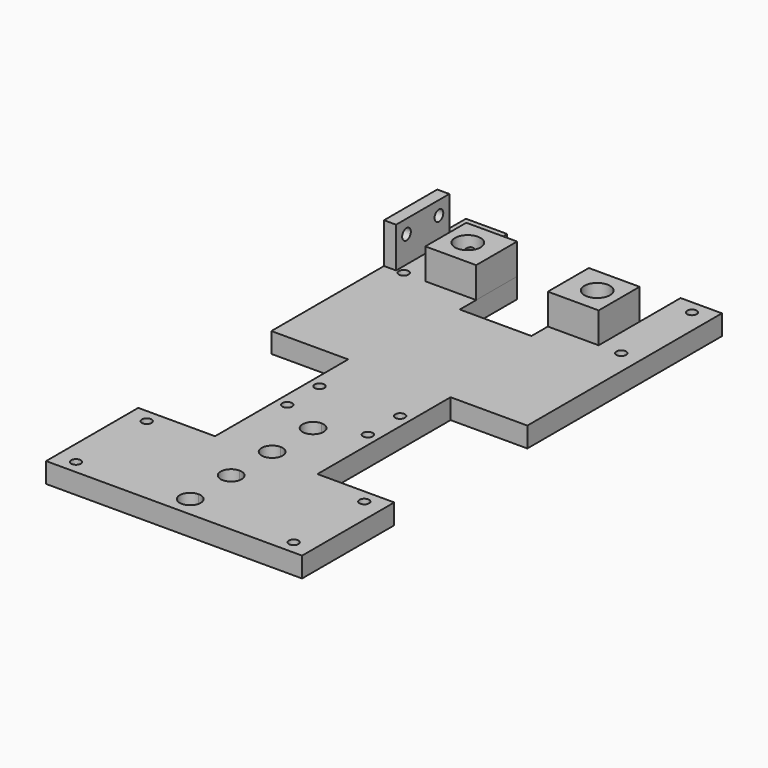
from build123d import *

# Parameters (mm, degrees)
F0_R      = 1.2
F0_W      = 31.75
F0_H      = 14.2875
F1_DEPTH  = 5
F2_W      = 19.05
F2_H      = 31.75
F3_DEPTH  = 5
F4_W      = 43.000006
F4_H      = 12.7
F5_DEPTH  = 5
F6_W      = 17.78
F6_H      = 17.78
F7_DEPTH  = 5
F8_W      = 12.610003
F8_H      = 12.7
F9_DEPTH  = 7.62
F10_R     = 3.175
F11_DEPTH = 7.62
F12_R     = 1.2
F13_DEPTH = 6
F14_W     = 3
F14_H     = 16.51
F15_DEPTH = 10
F16_R     = 1.349997
F17_DEPTH = 3


with BuildPart() as f1:
    # F0 (on Top) → F1 (new body)
    with BuildSketch(Plane.XY):
        Polygon((-31.75, 36.5125), (-12.7, 36.5125), (-12.7, 0), (0, 0), (0, 50.8), (-31.75, 50.8), align=None)
        with Locations((-26.9875, 39.84625)):
            Circle(F0_R, mode=Mode.SUBTRACT)
        with BuildLine():
            Line((0, 0), (-12.7, 0))
            Line((-12.7, 0), (-12.7, -36.5125))
            Line((-12.7, -36.5125), (-31.75, -36.5125))
            Line((-31.75, -36.5125), (-31.75, -50.8))
            Line((-31.75, -50.8), (0, -50.8))
            Line((0, -50.8), (0, -49.9875))
            ThreePointArc((0, -49.9875), (-2.6, -47.3875), (0, -44.7875))
            Line((0, -44.7875), (0, -37.2875))
            ThreePointArc((0, -37.2875), (-2.6, -34.6875), (0, -32.0875))
            Line((0, -32.0875), (0, -24.5875))
            ThreePointArc((0, -24.5875), (-2.6, -21.9875), (0, -19.3875))
            Line((0, -19.3875), (0, 0))
        make_face()
        with Locations((-26.9875, -39.84625)):
            Circle(F0_R, mode=Mode.SUBTRACT)
        with Locations((-10, -17.500003)):
            Circle(F0_R, mode=Mode.SUBTRACT)
        with Locations((-10, -7.499998)):
            Circle(F0_R, mode=Mode.SUBTRACT)
        Polygon((0, 50.8), (0, 0), (12.7, 0), (12.7, 36.5125), (31.75, 36.5125), (31.75, 50.8), align=None)
        with Locations((26.9875, 39.84625)):
            Circle(F0_R, mode=Mode.SUBTRACT)
        with BuildLine():
            Line((12.7, 0), (0, 0))
            Line((0, 0), (0, -19.3875))
            ThreePointArc((0, -19.3875), (1.838478, -20.149022), (2.6, -21.9875))
            ThreePointArc((2.6, -21.9875), (1.838478, -23.825978), (0, -24.5875))
            Line((0, -24.5875), (0, -32.0875))
            ThreePointArc((0, -32.0875), (1.838478, -32.849022), (2.6, -34.6875))
            ThreePointArc((2.6, -34.6875), (1.838478, -36.525978), (0, -37.2875))
            Line((0, -37.2875), (0, -44.7875))
            ThreePointArc((0, -44.7875), (1.838478, -45.549022), (2.6, -47.3875))
            ThreePointArc((2.6, -47.3875), (1.838478, -49.225978), (0, -49.9875))
            Line((0, -49.9875), (0, -50.8))
            Line((0, -50.8), (31.75, -50.8))
            Line((31.75, -50.8), (31.75, -36.5125))
            Line((31.75, -36.5125), (12.7, -36.5125))
            Line((12.7, -36.5125), (12.7, 0))
        make_face()
        with Locations((26.9875, -39.84625)):
            Circle(F0_R, mode=Mode.SUBTRACT)
        with Locations((10, -17.500003)):
            Circle(F0_R, mode=Mode.SUBTRACT)
        with Locations((10, -7.499998)):
            Circle(F0_R, mode=Mode.SUBTRACT)
        with Locations((-15.875, 57.94375)):
            Rectangle(F0_W, F0_H)
        with Locations((-26.9875, 61.75375)):
            Circle(F0_R, mode=Mode.SUBTRACT)
        with Locations((15.875, 57.94375)):
            Rectangle(F0_W, F0_H)
        with Locations((26.9875, 61.75375)):
            Circle(F0_R, mode=Mode.SUBTRACT)
        with BuildLine():
            Line((0, -50.8), (-31.75, -50.8))
            Line((-31.75, -50.8), (-31.75, -65.0875))
            Line((-31.75, -65.0875), (0, -65.0875))
            Line((0, -65.0875), (0, -62.6875))
            ThreePointArc((0, -62.6875), (-2.6, -60.0875), (0, -57.4875))
            Line((0, -57.4875), (0, -50.8))
        make_face()
        with Locations((-26.9875, -61.75375)):
            Circle(F0_R, mode=Mode.SUBTRACT)
        with BuildLine():
            Line((31.75, -50.8), (0, -50.8))
            Line((0, -50.8), (0, -57.4875))
            ThreePointArc((0, -57.4875), (1.838478, -58.249022), (2.6, -60.0875))
            ThreePointArc((2.6, -60.0875), (1.838478, -61.925978), (0, -62.6875))
            Line((0, -62.6875), (0, -65.0875))
            Line((0, -65.0875), (31.75, -65.0875))
            Line((31.75, -65.0875), (31.75, -50.8))
        make_face()
        with Locations((26.9875, -61.75375)):
            Circle(F0_R, mode=Mode.SUBTRACT)
    extrude(amount=F1_DEPTH)

    # F2 (on face) → F3 (join, through all)
    with BuildSketch(Plane.XY.offset(5)):
        with Locations((-22.225, 20.6375)):
            Rectangle(F2_W, F2_H)
        with Locations((22.225, 20.6375)):
            Rectangle(F2_W, F2_H)
    extrude(amount=-F3_DEPTH)

    # F4 (on face) → F5 (cut, through all)
    with BuildSketch(Plane.XY.offset(5)):
        with Locations((0, 58.7375)):
            Rectangle(F4_W, F4_H)
    extrude(amount=-F5_DEPTH, mode=Mode.SUBTRACT)

    # F6 (on face) → F7 (cut, through all)
    with BuildSketch(Plane(origin=(0, 0, 0), x_dir=(1, 0, 0), z_dir=(0, 0, -1))):
        with Locations((0, -43.4975)):
            Rectangle(F6_W, F6_H)
    extrude(amount=-F7_DEPTH, mode=Mode.SUBTRACT)

    # F8 (on face) → F9 (join)
    with BuildSketch(Plane.XY.offset(5)):
        with Locations((-15.195002, 46.0375)):
            Rectangle(F8_W, F8_H)
        with Locations((15.195002, 46.0375)):
            Rectangle(F8_W, F8_H)
    extrude(amount=F9_DEPTH)

    # F10 (on face) → F11 (cut)
    with BuildSketch(Plane.XY.offset(12.62)):
        with BuildLine():
            Line((-19.225006, 46.0375), (-12.875006, 46.0375))
            ThreePointArc((-12.875006, 46.0375), (-16.050006, 49.2125), (-19.225006, 46.0375))
        make_face()
        with BuildLine():
            ThreePointArc((-19.225006, 46.0375), (-16.050006, 42.8625), (-12.875006, 46.0375))
            Line((-12.875006, 46.0375), (-19.225006, 46.0375))
        make_face()
        with Locations((16.050006, 46.0375)):
            Circle(F10_R)
    extrude(amount=-F11_DEPTH, mode=Mode.SUBTRACT)

    # F12 (on face) → F13 (cut)
    with BuildSketch(Plane(origin=(0, 52.3875, 0), x_dir=(-1, 0, 0), z_dir=(0, 1, 0))):
        with Locations((17.500003, 8.81)):
            Circle(F12_R)
        with Locations((-17.500003, 8.81)):
            Circle(F12_R)
    extrude(amount=-F13_DEPTH, mode=Mode.SUBTRACT)

    # F14 (on face) → F15 (join)
    with BuildSketch(Plane.XY.offset(5)):
        with Locations((-30.25, 47.9425)):
            Rectangle(F14_W, F14_H)
    extrude(amount=F15_DEPTH)

    # F16 (on face) → F17 (cut, through all)
    with BuildSketch(Plane.YZ.offset(-28.75)):
        with Locations((42.917504, 11.599987)):
            Circle(F16_R)
        with Locations((52.967496, 11.599987)):
            Circle(F16_R)
    extrude(amount=-F17_DEPTH, mode=Mode.SUBTRACT)


solid = f1.part
